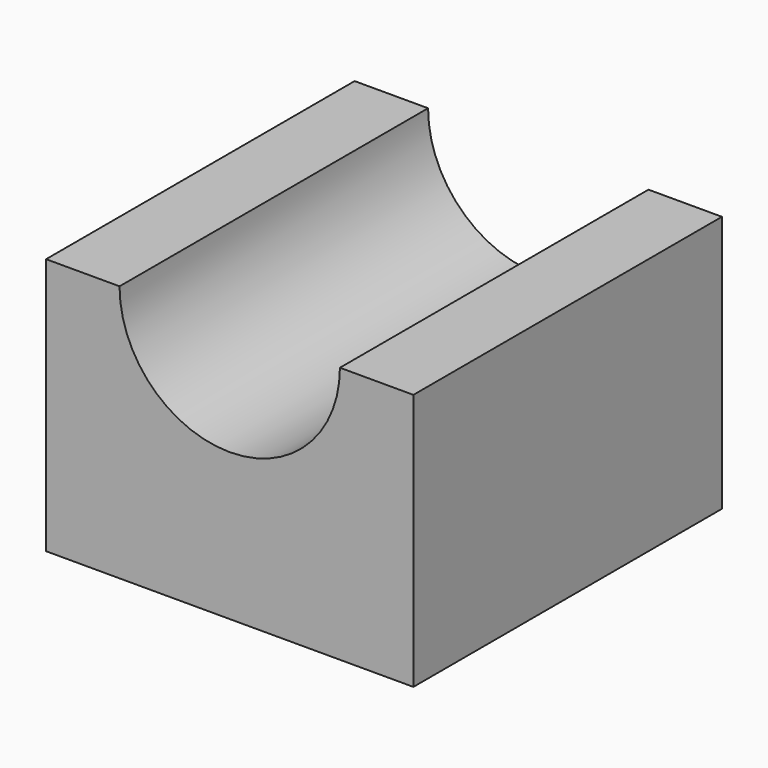
from build123d import *

# Parameters (mm, degrees)
F1_DEPTH = 1066.8


with BuildPart() as f1:
    # F0 (on Front) → F1 (new body)
    with BuildSketch(Plane.XZ):
        with BuildLine():
            Line((0, 711.2), (0, 0))
            Line((0, 0), (1016, 0))
            Line((1016, 0), (1016, 711.2))
            Line((1016, 711.2), (812.8, 711.2))
            ThreePointArc((812.8, 711.2), (508, 406.4), (203.2, 711.2))
            Line((203.2, 711.2), (0, 711.2))
        make_face()
        with BuildLine():
            Line((0, 711.2), (0, 0))
            Line((0, 0), (1016, 0))
            Line((1016, 0), (1016, 711.2))
            Line((1016, 711.2), (812.8, 711.2))
            ThreePointArc((812.8, 711.2), (508, 406.4), (203.2, 711.2))
            Line((203.2, 711.2), (0, 711.2))
        make_face()
    extrude(amount=F1_DEPTH)


solid = f1.part
